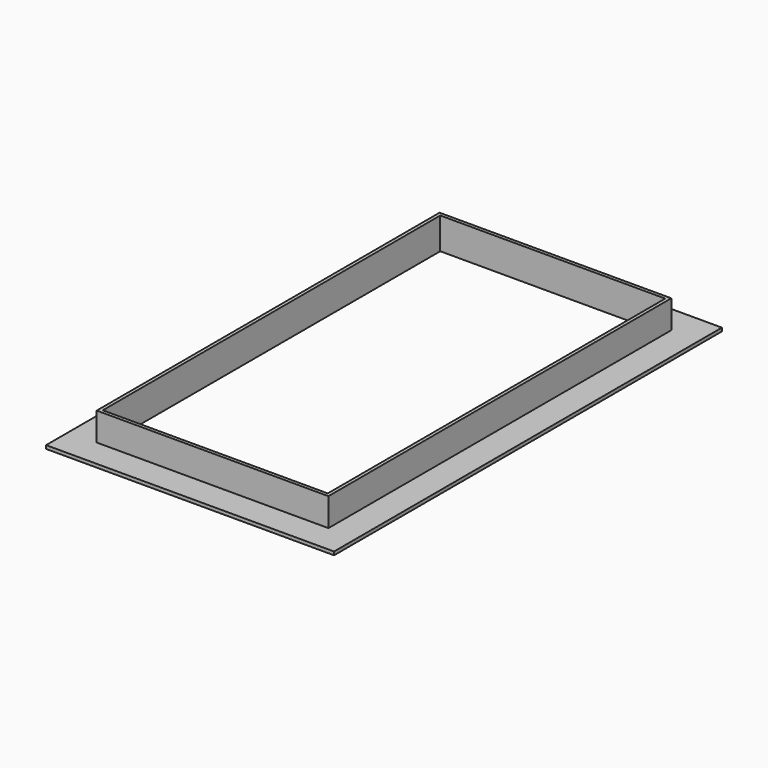
from build123d import *

# Parameters (mm, degrees)
SKETCH054_W            = 400
SKETCH054_H            = 60
PAD003_DEPTH           = 375
SKETCH004_W            = 412
SKETCH004_H            = 50
PAD004_DEPTH           = 381
SKETCH055_W            = 512
SKETCH055_H            = 862
PAD005_DEPTH           = 6
CUT001_PLACEMENT_ANGLE = 180


with BuildPart() as body002:
    # Sketch054 → Pad003 (new body, symmetric)
    with BuildSketch(Plane.XZ):
        with Locations((0, 30)):
            Rectangle(SKETCH054_W, SKETCH054_H)
    extrude(amount=PAD003_DEPTH, both=True)


with BuildPart() as cut001:
    # Sketch004 → Pad004 (new body, symmetric)
    with BuildSketch(Plane.XZ):
        with Locations((0, 25)):
            Rectangle(SKETCH004_W, SKETCH004_H)
    extrude(amount=PAD004_DEPTH, both=True)

    # Sketch055 (on Face3 of Pad004) → Pad005 (join)
    with BuildSketch(Plane(origin=(0, 0, 50), x_dir=(-1, 0, 0), z_dir=(0, 0, 1))):
        Rectangle(SKETCH055_W, SKETCH055_H)
    extrude(amount=PAD005_DEPTH)

    # Cut001: cut Body002
    add(body002.part, mode=Mode.SUBTRACT)


with BuildPart() as cut001_1:
    # Cut001 placement: moved
    add(cut001.part.rotate(Axis((0, 0, 0), (0, 1, 0)), CUT001_PLACEMENT_ANGLE))


solid = cut001_1.part
